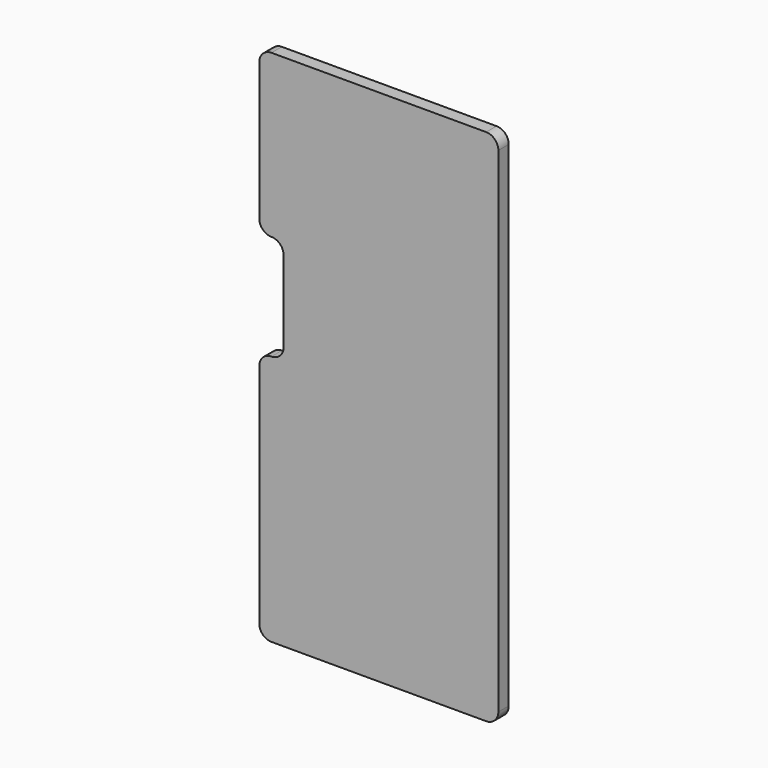
from build123d import *

# Parameters (mm, degrees)
F1_DEPTH = 16


with BuildPart() as f1:
    # F0 (on Front) → F1 (new body)
    with BuildSketch(Plane.XZ):
        with BuildLine():
            Line((280, 640), (15, 640))
            ThreePointArc((15, 640), (4.393398, 635.606602), (0, 625))
            Line((0, 625), (0, 455))
            ThreePointArc((0, 455), (4.393398, 444.393398), (15, 440))
            ThreePointArc((15, 440), (25.606602, 435.606602), (30, 425))
            Line((30, 425), (30, 325))
            ThreePointArc((30, 325), (25.606602, 314.393398), (15, 310))
            ThreePointArc((15, 310), (4.393398, 305.606602), (0, 295))
            Line((0, 295), (0, 15))
            ThreePointArc((0, 15), (4.393398, 4.393398), (15, 0))
            Line((15, 0), (280, 0))
            ThreePointArc((280, 0), (290.606602, 4.393398), (295, 15))
            Line((295, 15), (295, 625))
            ThreePointArc((295, 625), (290.606602, 635.606602), (280, 640))
        make_face()
    extrude(amount=F1_DEPTH)


solid = f1.part
